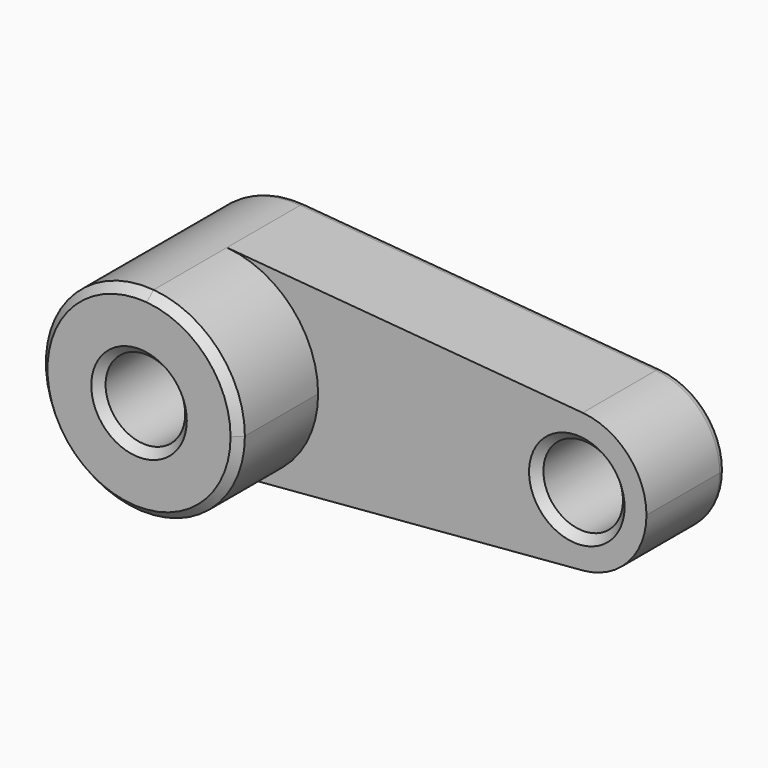
from build123d import *

# Parameters (mm, degrees)
F0_R     = 25.4
F1_DEPTH = 63.5
F2_DEPTH = 127
F3_SIZE  = 5.08
F4_R     = 5.08


with BuildPart() as f1:
    # F0 (on Front) → F1 (new body)
    with BuildSketch(Plane.XZ):
        with BuildLine():
            ThreePointArc((5.291667, -63.27913), (46.734735, -42.989703), (63.5, 0))
            ThreePointArc((63.5, 0), (46.734735, 42.989703), (5.291667, 63.27913))
            ThreePointArc((5.291667, 63.27913), (-63.5, 0), (5.291667, -63.27913))
        make_face()
        Circle(F0_R, mode=Mode.SUBTRACT)
        with BuildLine():
            ThreePointArc((5.291667, 63.27913), (46.734735, 42.989703), (63.5, 0))
            ThreePointArc((63.5, 0), (46.734735, -42.989703), (5.291667, -63.27913))
            Line((5.291667, -63.27913), (232.304167, -44.295391))
            ThreePointArc((232.304167, -44.295391), (184.15, 0), (232.304167, 44.295391))
            Line((232.304167, 44.295391), (5.291667, 63.27913))
        make_face()
        with BuildLine():
            ThreePointArc((273.05, 0), (261.314314, 30.092792), (232.304167, 44.295391))
            ThreePointArc((232.304167, 44.295391), (184.15, 0), (232.304167, -44.295391))
            ThreePointArc((232.304167, -44.295391), (261.314314, -30.092792), (273.05, 0))
        make_face()
        with Locations((228.6, 0)):
            Circle(F0_R, mode=Mode.SUBTRACT)
    extrude(amount=F1_DEPTH)

    # F0 (on Front) → F2 (join)
    with BuildSketch(Plane.XZ):
        with BuildLine():
            ThreePointArc((5.291667, -63.27913), (46.734735, -42.989703), (63.5, 0))
            ThreePointArc((63.5, 0), (46.734735, 42.989703), (5.291667, 63.27913))
            ThreePointArc((5.291667, 63.27913), (-63.5, 0), (5.291667, -63.27913))
        make_face()
        Circle(F0_R, mode=Mode.SUBTRACT)
    extrude(amount=F2_DEPTH)

    # F3
    f3_edges = [f1.edges().sort_by_distance(p)[0] for p in [
        (-25.4, -127, 0),
        (-5.291667, -127, 63.27913),
        (203.2, -63.5, 0),
    ]]
    chamfer(f3_edges, length=F3_SIZE)

    # F4
    f4_edges = [f1.edges().sort_by_distance(p)[0] for p in [
        (118.797917, 0, 53.78726),
        (118.797917, 0, -53.78726),
        (-63.5, 0, 0),
        (273.05, 0, 0),
    ]]
    fillet(f4_edges, radius=F4_R)


solid = f1.part
